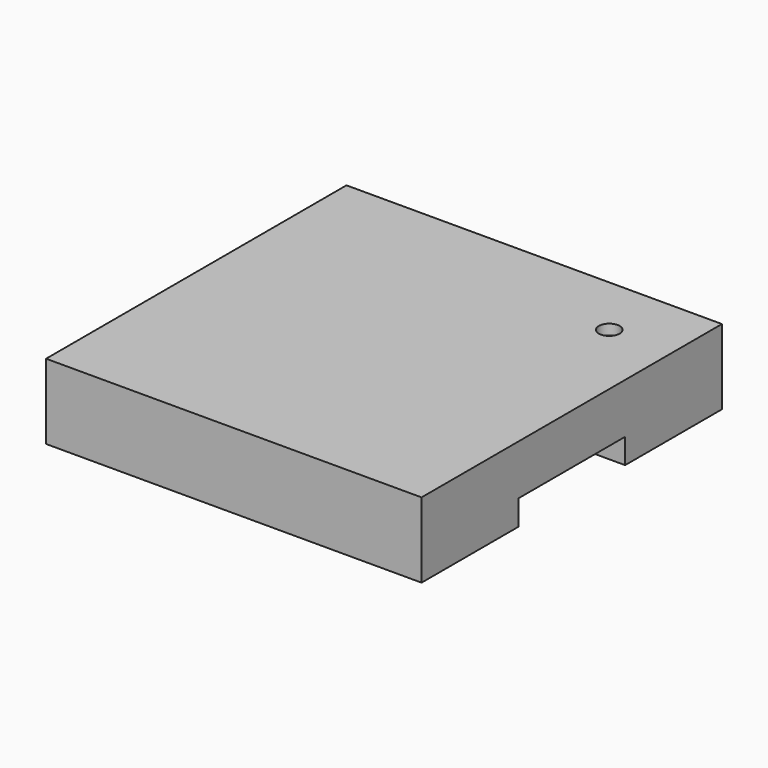
from build123d import *

# Parameters (mm, degrees)
SKETCH_W        = 9
SKETCH_H        = 9
PAD_DEPTH       = 1.8
SKETCH001_R     = 0.25
POCKET_DEPTH    = 0.25
SKETCH002_W     = 3.2
SKETCH002_H     = 0.6
POCKET001_DEPTH = 1


with BuildPart() as part:
    # Sketch → Pad (new body)
    with BuildSketch(Plane.XY):
        Rectangle(SKETCH_W, SKETCH_H)
    extrude(amount=PAD_DEPTH)

    # Sketch001 (on Face6 of Pad) → Pocket (cut)
    with BuildSketch(Plane.XY.offset(1.8)):
        with Locations((3, 3)):
            Circle(SKETCH001_R)
    extrude(amount=-POCKET_DEPTH, mode=Mode.SUBTRACT)

    # Sketch002 (on Face6 of Pocket) → Pocket001 (cut)
    with BuildSketch(Plane.YZ.offset(4.5)):
        with Locations((0, 0.3)):
            Rectangle(SKETCH002_W, SKETCH002_H)
    pocket001 = extrude(amount=-POCKET001_DEPTH, mode=Mode.SUBTRACT)

    # Mirrored: Pocket001 across YZ
    add(pocket001.mirror(Plane.YZ), mode=Mode.SUBTRACT)


solid = part.part
